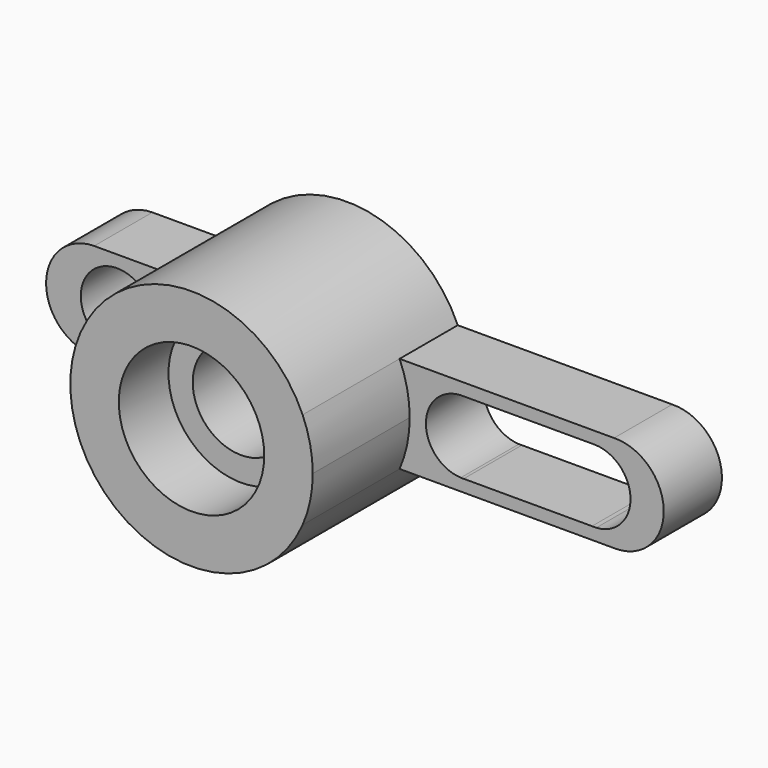
from build123d import *

# Parameters (mm, degrees)
F0_R     = 19.05
F1_DEPTH = 50.8
F0_R_2   = 9.525
F2_DEPTH = 19.05
F0_R_3   = 12.7
F3_DEPTH = 34.544


with BuildPart() as f1:
    # F0 (on Front) → F1 (new body)
    with BuildSketch(Plane.XZ):
        with BuildLine():
            ThreePointArc((29.100271, -12.697902), (31.080509, -6.485711), (31.75, 0))
            ThreePointArc((31.75, 0), (31.080718, 6.484712), (29.101087, 12.696032))
            ThreePointArc((29.101087, 12.696032), (0.001961, 31.75), (-29.099518, 12.699628))
            ThreePointArc((-29.099518, 12.699628), (-31.749679, 0.142707), (-29.212504, -12.437529))
            ThreePointArc((-29.212504, -12.437529), (-0.141766, -31.749684), (29.100271, -12.697902))
        make_face()
        Circle(F0_R, mode=Mode.SUBTRACT)
    extrude(amount=F1_DEPTH)

    # F0 (on Front) → F2 (join)
    with BuildSketch(Plane.XZ):
        with BuildLine():
            ThreePointArc((-29.212504, -12.437529), (-31.749679, 0.142707), (-29.099518, 12.699628))
            Line((-29.099518, 12.699628), (-50.702789, 12.699628))
            Line((-50.702789, 12.699628), (-50.897211, 12.699628))
            ThreePointArc((-50.897211, 12.699628), (-63.499374, -0.126084), (-50.645043, -12.699055))
            Line((-50.645043, -12.699055), (-29.212504, -12.437529))
        make_face()
        with Locations((-44.891737, 0)):
            Circle(F0_R_2, mode=Mode.SUBTRACT)
        with BuildLine():
            ThreePointArc((29.101087, 12.696032), (31.080718, 6.484712), (31.75, 0))
            ThreePointArc((31.75, 0), (31.080509, -6.485711), (29.100271, -12.697902))
            Line((29.100271, -12.697902), (85.367147, -12.697902))
            Line((85.367147, -12.697902), (85.828853, -12.697902))
            ThreePointArc((85.828853, -12.697902), (98.295041, 0.274142), (85.280573, 12.696032))
            Line((85.280573, 12.696032), (29.101087, 12.696032))
        make_face()
        with BuildLine():
            ThreePointArc((45.121247, -9.508264), (35.988966, -0.012772), (45.095725, 9.5072))
            Line((45.095725, 9.5072), (80.063554, 9.524999))
            ThreePointArc((80.063554, 9.524999), (89.589145, 0.284741), (80.63279, -9.508264))
            ThreePointArc((80.63279, -9.508264), (80.068402, -9.525), (79.504014, -9.508264))
            Line((79.504014, -9.508264), (45.888676, -9.508264))
            ThreePointArc((45.888676, -9.508264), (45.504961, -9.516004), (45.121247, -9.508264))
        make_face(mode=Mode.SUBTRACT)
    extrude(amount=F2_DEPTH)

    # F0 (on Front) → F3 (join)
    with BuildSketch(Plane.XZ):
        Circle(F0_R)
        Circle(F0_R_3, mode=Mode.SUBTRACT)
    extrude(amount=F3_DEPTH)


solid = f1.part
